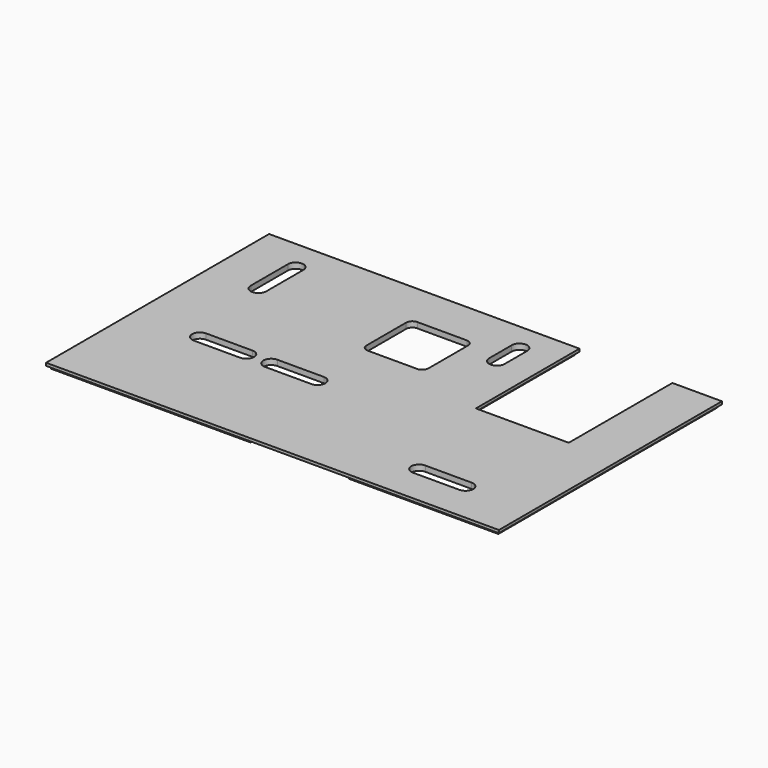
from build123d import *

# Parameters (mm, degrees)
F0_W      = 731
F0_H      = 450
F1_DEPTH  = 9
F2_W      = 731
F2_H      = 450
F2_W_2    = 722
F2_H_2    = 441
F3_DEPTH  = 4.5
F4_W      = 150
F4_H      = 9
F5_DEPTH  = 209
F6_W      = 4.5
F6_H      = 209
F7_DEPTH  = 4.5
F8_W      = 159
F8_H      = 4.5
F9_DEPTH  = 4.5
F10_W     = 25
F10_H     = 45.514172
F11_DEPTH = 9.001
F13_DEPTH = 9.001
F15_DEPTH = 9
F16_W     = 100
F16_H     = 100
F17_DEPTH = 9
F18_R     = 10
F20_DEPTH = 9
F21_W     = 6
F21_H     = 200
F22_DEPTH = 4.5
F23_W     = 146.5
F23_H     = 200
F24_DEPTH = 2


with BuildPart() as f1:
    # F0 (on Top) → F1 (new body)
    with BuildSketch(Plane.XY):
        Rectangle(F0_W, F0_H)
    extrude(amount=F1_DEPTH)

    # F2 (on face) → F3 (cut)
    with BuildSketch(Plane(origin=(0, 0, 0), x_dir=(1, 0, 0), z_dir=(0, 0, -1))):
        Rectangle(F2_W, F2_H)
        Rectangle(F2_W_2, F2_H_2, mode=Mode.SUBTRACT)
    extrude(amount=-F3_DEPTH, mode=Mode.SUBTRACT)

    # F4 (on face) → F5 (cut)
    with BuildSketch(Plane(origin=(0, 225, 0), x_dir=(-1, 0, 0), z_dir=(0, 1, 0))):
        with Locations((-210.5, 4.5)):
            Rectangle(F4_W, F4_H)
    extrude(amount=-F5_DEPTH, mode=Mode.SUBTRACT)

    # F6 (on face) → F7 (cut)
    with BuildSketch(Plane(origin=(0, 0, 0), x_dir=(1, 0, 0), z_dir=(0, 0, -1))):
        with Locations((133.25, -120.5)):
            Rectangle(F6_W, F6_H)
        with Locations((287.75, -120.5)):
            Rectangle(F6_W, F6_H)
    extrude(amount=-F7_DEPTH, mode=Mode.SUBTRACT)

    # F8 (on face) → F9 (cut)
    with BuildSketch(Plane(origin=(0, 0, 0), x_dir=(1, 0, 0), z_dir=(0, 0, -1))):
        with Locations((210.5, -13.75)):
            Rectangle(F8_W, F8_H)
    extrude(amount=-F9_DEPTH, mode=Mode.SUBTRACT)

    # F10 (on face) → F11 (cut, through all)
    with BuildSketch(Plane.XY.offset(9)):
        with BuildLine():
            Line((63, 179), (88, 179))
            ThreePointArc((88, 179), (75.5, 191.5), (63, 179))
        make_face()
        with Locations((75.5, 156.242914)):
            Rectangle(F10_W, F10_H)
        with BuildLine():
            ThreePointArc((63, 133.485828), (75.5, 120.985828), (88, 133.485828))
            Line((88, 133.485828), (63, 133.485828))
        make_face()
    extrude(amount=-F11_DEPTH, mode=Mode.SUBTRACT)

    # F12 (on face) → F13 (cut, through all)
    with BuildSketch(Plane.XY.offset(9)):
        with BuildLine():
            Line((-183, -36.5), (-258, -36.5))
            ThreePointArc((-258, -36.5), (-270.5, -49), (-258, -61.5))
            Line((-258, -61.5), (-183, -61.5))
            ThreePointArc((-183, -61.5), (-170.5, -49), (-183, -36.5))
        make_face()
        with BuildLine():
            Line((-68, -36.5), (-143, -36.5))
            ThreePointArc((-143, -36.5), (-155.5, -49), (-143, -61.5))
            Line((-143, -61.5), (-68, -61.5))
            ThreePointArc((-68, -61.5), (-55.5, -49), (-68, -36.5))
        make_face()
    extrude(amount=-F13_DEPTH, mode=Mode.SUBTRACT)

    # F14 (on face) → F15 (cut, through all)
    with BuildSketch(Plane.XY.offset(9)):
        with BuildLine():
            ThreePointArc((-270.5, 175.5), (-283, 188), (-295.5, 175.5))
            Line((-295.5, 175.5), (-295.5, 100.5))
            ThreePointArc((-295.5, 100.5), (-283, 88), (-270.5, 100.5))
            Line((-270.5, 100.5), (-270.5, 175.5))
        make_face()
    extrude(amount=-F15_DEPTH, mode=Mode.SUBTRACT)

    # F16 (on face) → F17 (cut, through all)
    with BuildSketch(Plane(origin=(0, 0, 0), x_dir=(1, 0, 0), z_dir=(0, 0, -1))):
        with Locations((-29.5, -104)):
            Rectangle(F16_W, F16_H)
    extrude(amount=-F17_DEPTH, mode=Mode.SUBTRACT)

    # F18
    f18_edges = [f1.edges().sort_by_distance(p)[0] for p in [
        (20.5, 154, 4.5),
        (-79.5, 154, 4.5),
        (-79.5, 54, 4.5),
        (20.5, 54, 4.5),
    ]]
    fillet(f18_edges, radius=F18_R)

    # F19 (on face) → F20 (cut, through all)
    with BuildSketch(Plane.XY.offset(9)):
        with BuildLine():
            ThreePointArc((258, -170.5), (270.5, -158), (258, -145.5))
            Line((258, -145.5), (183, -145.5))
            ThreePointArc((183, -145.5), (170.5, -158), (183, -170.5))
            Line((183, -170.5), (258, -170.5))
        make_face()
    extrude(amount=-F20_DEPTH, mode=Mode.SUBTRACT)

    # F21 (on face) → F22 (cut)
    with BuildSketch(Plane(origin=(0, 0, 0), x_dir=(1, 0, 0), z_dir=(0, 0, -1))):
        with Locations((-36, 120.5)):
            Rectangle(F21_W, F21_H)
        with Locations((116.5, 120.5)):
            Rectangle(F21_W, F21_H)
    extrude(amount=-F22_DEPTH, mode=Mode.SUBTRACT)

    # F23 (on face) → F24 (cut)
    with BuildSketch(Plane(origin=(0, 0, 0), x_dir=(1, 0, 0), z_dir=(0, 0, -1))):
        with Locations((40.25, 120.5)):
            Rectangle(F23_W, F23_H)
    extrude(amount=-F24_DEPTH, mode=Mode.SUBTRACT)


solid = f1.part
